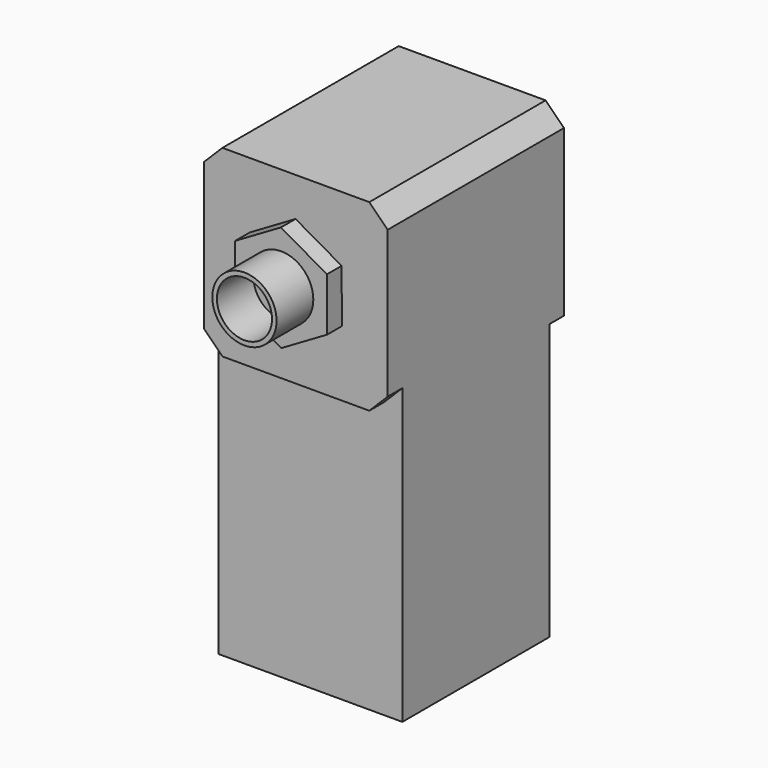
from build123d import *

# Parameters (mm, degrees)
F0_W      = 20
F0_H      = 50
F1_DEPTH  = 20
F2_W      = 20
F2_H      = 20
F3_DEPTH  = 2
F5_DEPTH  = 2
F6_R      = 3.5
F6_R_2    = 3
F7_DEPTH  = 5
F8_SIZE   = 2
F10_DEPTH = 2
F12_DEPTH = 2
F13_R     = 3.5
F13_R_2   = 3
F14_DEPTH = 5


with BuildPart() as f1:
    # F0 (on Front) → F1 (new body)
    with BuildSketch(Plane.XZ):
        Rectangle(F0_W, F0_H)
    extrude(amount=F1_DEPTH)

    # F2 (on face) → F3 (join)
    with BuildSketch(Plane.XZ.offset(20)):
        with Locations((0, 15)):
            Rectangle(F2_W, F2_H)
    extrude(amount=F3_DEPTH)

    # F4 (on face) → F5 (join)
    with BuildSketch(Plane.XZ.offset(22)):
        Polygon((4.9852110878, 17.9122162941), (-0.0294477481, 20.7734275923), (-5.0146588359, 17.8612112982), (-4.9852110878, 12.0877837059), (0.0294477481, 9.2265724077), (5.0146588359, 12.1387887018), align=None)
    extrude(amount=F5_DEPTH)

    # F6 (on face) → F7 (join)
    with BuildSketch(Plane.XZ.offset(24)):
        with Locations((0, 15)):
            Circle(F6_R)
        with Locations((0, 15)):
            Circle(F6_R_2, mode=Mode.SUBTRACT)
    extrude(amount=F7_DEPTH)

    # F8
    f8_edges = [f1.edges().sort_by_distance(p)[0] for p in [
        (-10, -11, 25),
        (10, -11, 25),
        (-10, -21, 5),
        (10, -21, 5),
    ]]
    chamfer(f8_edges, length=F8_SIZE)

    # F9 (on face) → F10 (join)
    with BuildSketch(Plane(origin=(0, 0, 0), x_dir=(-1, 0, 0), z_dir=(0, 1, 0))):
        Polygon((10, 23), (8, 25), (-8, 25), (-10, 23), (-10, 5), (10, 5), align=None)
    extrude(amount=F10_DEPTH)

    # F11 (on face) → F12 (join)
    with BuildSketch(Plane(origin=(0, 2, 0), x_dir=(-1, 0, 0), z_dir=(0, 1, 0))):
        Polygon((-0.0638436958, 20.7731496876), (-5.0316161373, 17.8312845814), (-4.9677724414, 12.0581348937), (0.0638436958, 9.2268503124), (5.0316161373, 12.1687154186), (4.9677724414, 17.9418651063), align=None)
    extrude(amount=F12_DEPTH)

    # F13 (on face) → F14 (join)
    with BuildSketch(Plane(origin=(0, 4, 0), x_dir=(-1, 0, 0), z_dir=(0, 1, 0))):
        with Locations((0, 15)):
            Circle(F13_R)
        with Locations((0, 15)):
            Circle(F13_R_2, mode=Mode.SUBTRACT)
    extrude(amount=F14_DEPTH)


solid = f1.part
